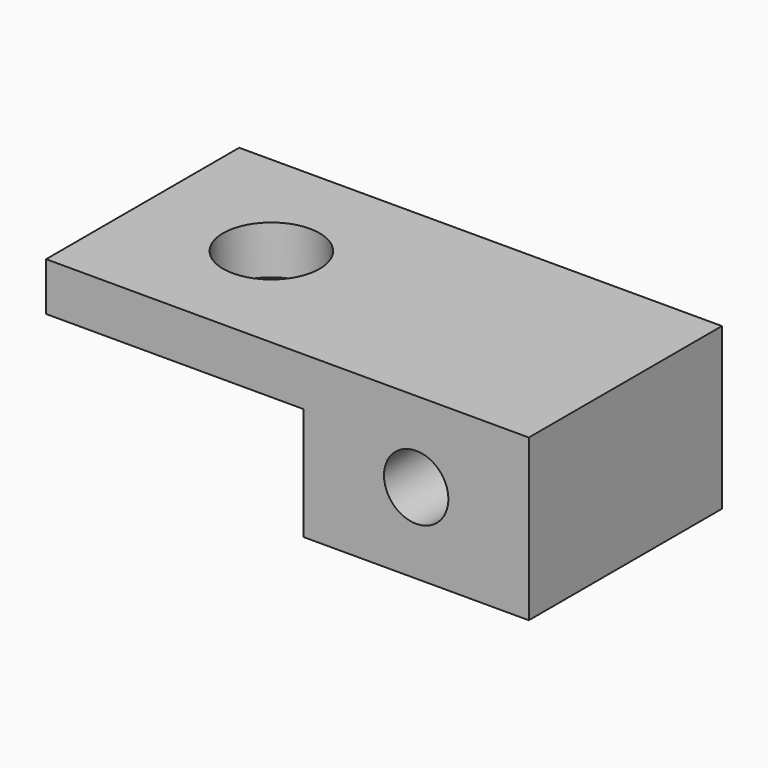
from build123d import *

# Parameters (mm, degrees)
F0_W     = 30
F0_H     = 15
F1_DEPTH = 10
F2_D     = 6
F4_D     = 4
F4_DEPTH = 8
F4_TIP   = 1.2017212381
F5_W     = 16
F5_H     = 7
F6_DEPTH = 7.5


with BuildPart() as f1:
    # F0 (on Top) → F1 (new body)
    with BuildSketch(Plane.XY):
        Rectangle(F0_W, F0_H)
    extrude(amount=F1_DEPTH)

    # F2 (through all)
    with Locations(Plane(origin=(0, 0, 0), x_dir=(1, 0, 0), z_dir=(0, 0, -1))):
        with Locations((-7, 0)):
            Hole(F2_D / 2)

    # F4
    with Locations(Plane.XZ.offset(7.5)):
        with Locations((8, 5)):
            Hole(F4_D / 2, depth=F4_DEPTH)
            with Locations((0, 0, -(F4_DEPTH + F4_TIP / 2))):  # 118° drill point
                Cone(0, F4_D / 2, F4_TIP, mode=Mode.SUBTRACT)

    # F5 (on Front) → F6 (cut, symmetric)
    with BuildSketch(Plane.XZ):
        with Locations((-7, 3.5)):
            Rectangle(F5_W, F5_H)
    extrude(amount=F6_DEPTH, both=True, mode=Mode.SUBTRACT)


solid = f1.part
